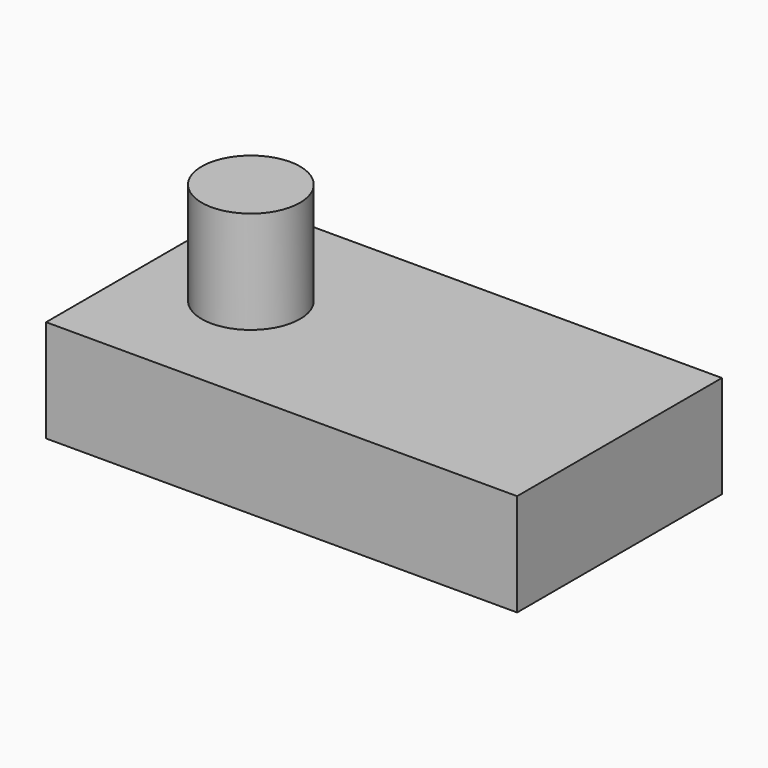
from build123d import *

# Parameters (mm, degrees)
F0_W     = 23
F0_H     = 12.5
F0_R     = 2.4
F1_DEPTH = 5
F2_DEPTH = 10


with BuildPart() as f1:
    # F0 (on Top) → F1 (new body)
    with BuildSketch(Plane.XY):
        Rectangle(F0_W, F0_H)
        with Locations((-6.5, 0)):
            Circle(F0_R, mode=Mode.SUBTRACT)
    extrude(amount=F1_DEPTH)

    # F0 (on Top) → F2 (join)
    with BuildSketch(Plane.XY):
        with Locations((-6.5, 0)):
            Circle(F0_R)
    extrude(amount=F2_DEPTH)


solid = f1.part
